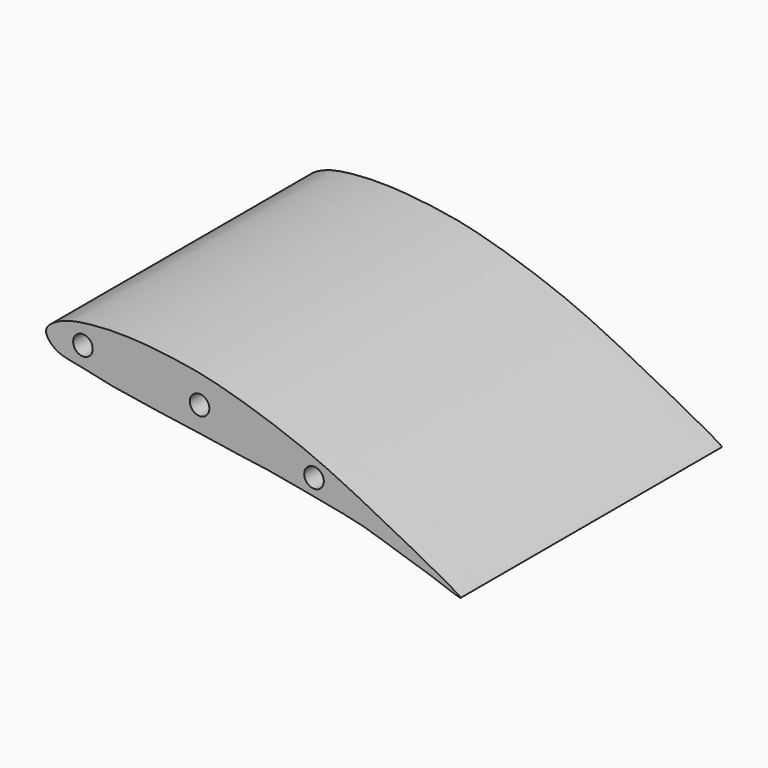
from build123d import *

# Parameters (mm, degrees)
F0_R     = 3
F1_DEPTH = 100


with BuildPart() as f1:
    # F0 (on Front) → F1 (new body)
    with BuildSketch(Plane.XZ):
        with BuildLine():
            add(Edge.make_bspline(
                [(-56.8993287912, 4.842261908), (-58.5579691554, 5.8395583901), (-61.7791339361, 9.3087613546), (-55.3225329065, 13.7797380365), (-46.054197157, 15.4549660632), (-32.2788006176, 15.8192680435), (-15.3530194617, 13.537869803), (-7.190743266, 11.6144385121), (3.0375024412, 8.7202952054), (17.6676420712, 3.6342027523), (29.9027241843, -1.8359792886), (43.9077217976, -8.9631179759), (52.6922075442, -13.4948104243), (73.0118491312, -24.4322018356), (57.4627314508, -18.3841542212), (51.4778206472, -16.7422973784), (43.3794828756, -14.1027064943), (36.3979223538, -11.6588735641), (22.6372321178, -9.1478556212), (14.2749042305, -7.5409613957), (5.9402424653, -6.0505186238), (-3.1126067639, -5.0030325906), (-11.5186767713, -3.5328269732), (-17.0363167261, -2.8058424989), (-24.5824357815, -1.6772478232), (-30.0611839915, -0.9188229164), (-35.5069469002, -0.0220692522), (-39.9513834471, 0.6985363531), (-43.2028334064, 1.4393787239), (-50.9685060835, 3.1886326789), (-55.0678853104, 3.7410634928), (-56.8993287912, 4.842261908)],
                knots=[0, 0, 0, 0, 0.0263751634, 0.0542890073, 0.090026477, 0.133602414, 0.181203759, 0.2145353595, 0.2516633047, 0.2970927324, 0.3402735786, 0.3845699969, 0.4256951504, 0.4694631313, 0.5037496667, 0.5362239069, 0.5684633497, 0.6006284645, 0.6435217806, 0.677790906, 0.7109026147, 0.7461705158, 0.7796175992, 0.8071414001, 0.838695815, 0.8662583187, 0.8933687455, 0.9173988399, 0.938640677, 0.9708769773, 1, 1, 1, 1], degree=3))
        make_face()
        with Locations((-12.9963375039, 4.299337386)):
            Circle(F0_R, mode=Mode.SUBTRACT)
        with Locations((-48.7194545567, 8.7556708604)):
            Circle(F0_R, mode=Mode.SUBTRACT)
        with Locations((22.0538973808, -3.9153466932)):
            Circle(F0_R, mode=Mode.SUBTRACT)
    extrude(amount=F1_DEPTH)


solid = f1.part
